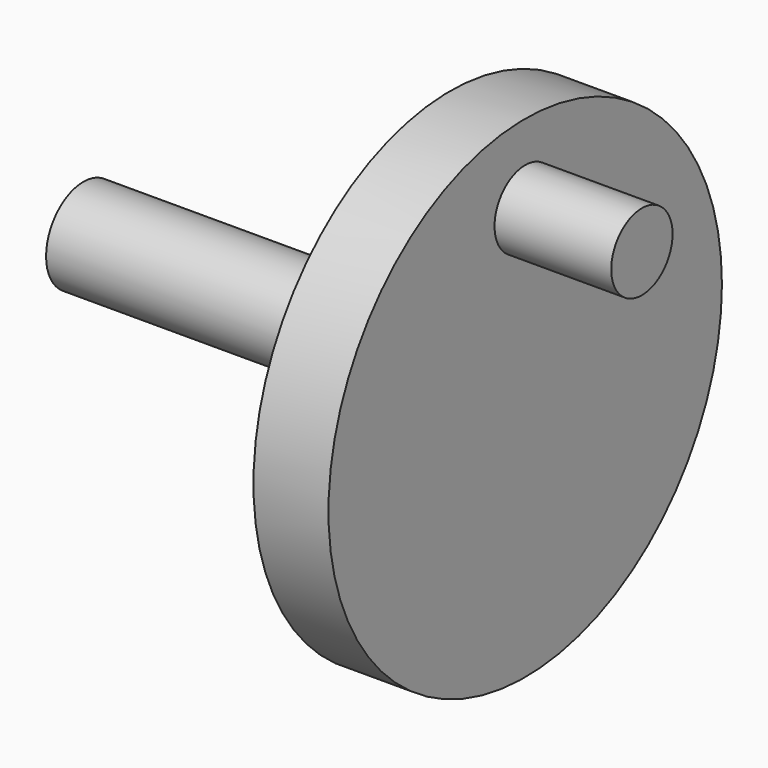
from build123d import *

# Parameters (mm, degrees)
F0_R      = 14.75
F1_DEPTH  = 4.5
F2_R      = 2.8
F3_DEPTH  = 17
F4_R      = 2.3
F5_DEPTH  = 7
F3_FACE_R = 2.8
F6_DEPTH  = 5


with BuildPart() as f1:
    # F0 (on Right) → F1 (new body)
    with BuildSketch(Plane.YZ):
        Circle(F0_R)
    extrude(amount=F1_DEPTH)

    # F2 (on face) → F3 (join)
    with BuildSketch(Plane(origin=(0, 0, 0), x_dir=(0, -1, 0), z_dir=(-1, 0, 0))):
        Circle(F2_R)
    extrude(amount=F3_DEPTH)

    # F4 (on face) → F5 (join)
    with BuildSketch(Plane.YZ.offset(4.5)):
        with Locations((0, 10)):
            Circle(F4_R)
    extrude(amount=F5_DEPTH)

    # F3_face (on face) → F6 (join)
    with BuildSketch(Plane(origin=(-17, 0, 0), x_dir=(0, -1, 0), z_dir=(-1, 0, 0))):
        Circle(F3_FACE_R)
    extrude(amount=F6_DEPTH)


solid = f1.part
